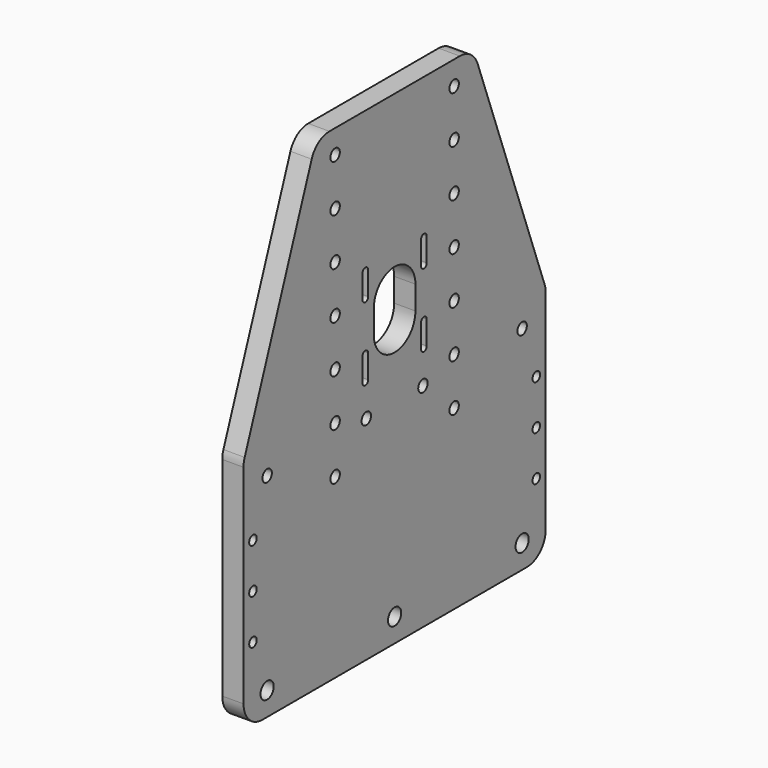
from build123d import *

# Parameters (mm, degrees)
F0_R     = 3.5
F0_R_2   = 2
F0_R_3   = 2.5
F1_DEPTH = 9


with BuildPart() as f1:
    # F0 (on Right) → F1 (new body)
    with BuildSketch(Plane.YZ):
        with BuildLine():
            Line((34.515636, 205), (-34.515636, 205))
            ThreePointArc((-34.515636, 205), (-40.241653, 203.198337), (-43.9044, 198.442546))
            Line((-43.9044, 198.442546), (-79.388763, 101.66701))
            ThreePointArc((-79.388763, 101.66701), (-79.846005, 99.972658), (-80, 98.224463))
            Line((-80, 98.224463), (-80, 10))
            ThreePointArc((-80, 10), (-77.071068, 2.928932), (-70, 0))
            Line((-70, 0), (70, 0))
            ThreePointArc((70, 0), (77.071068, 2.928932), (80, 10))
            Line((80, 10), (80, 98.224463))
            ThreePointArc((80, 98.224463), (79.846005, 99.972658), (79.388763, 101.66701))
            Line((79.388763, 101.66701), (43.9044, 198.442546))
            ThreePointArc((43.9044, 198.442546), (40.241653, 203.198337), (34.515636, 205))
        make_face()
        with Locations((-67.5, 10)):
            Circle(F0_R, mode=Mode.SUBTRACT)
        with Locations((-75, 31)):
            Circle(F0_R_2, mode=Mode.SUBTRACT)
        with Locations((-75, 50)):
            Circle(F0_R_2, mode=Mode.SUBTRACT)
        with Locations((-75, 69)):
            Circle(F0_R_2, mode=Mode.SUBTRACT)
        with Locations((-67.5, 90)):
            Circle(F0_R_3, mode=Mode.SUBTRACT)
        with Locations((-31.5, 75)):
            Circle(F0_R_3, mode=Mode.SUBTRACT)
        with Locations((-31.5, 95)):
            Circle(F0_R_3, mode=Mode.SUBTRACT)
        with Locations((-15, 90)):
            Circle(F0_R_3, mode=Mode.SUBTRACT)
        with Locations((0, 10)):
            Circle(F0_R, mode=Mode.SUBTRACT)
        with Locations((67.5, 10)):
            Circle(F0_R, mode=Mode.SUBTRACT)
        with Locations((75, 31)):
            Circle(F0_R_2, mode=Mode.SUBTRACT)
        with Locations((75, 50)):
            Circle(F0_R_2, mode=Mode.SUBTRACT)
        with Locations((31.5, 75)):
            Circle(F0_R_3, mode=Mode.SUBTRACT)
        with Locations((15, 90)):
            Circle(F0_R_3, mode=Mode.SUBTRACT)
        with Locations((31.5, 95)):
            Circle(F0_R_3, mode=Mode.SUBTRACT)
        with Locations((75, 69)):
            Circle(F0_R_2, mode=Mode.SUBTRACT)
        with Locations((67.5, 90)):
            Circle(F0_R_3, mode=Mode.SUBTRACT)
        with Locations((-31.5, 115)):
            Circle(F0_R_3, mode=Mode.SUBTRACT)
        with BuildLine():
            ThreePointArc((-14, 104), (-15.5, 102.5), (-17, 104))
            Line((-17, 104), (-17, 114))
            ThreePointArc((-17, 114), (-15.5, 115.5), (-14, 114))
            Line((-14, 114), (-14, 104))
        make_face(mode=Mode.SUBTRACT)
        with Locations((-31.5, 135)):
            Circle(F0_R_3, mode=Mode.SUBTRACT)
        with BuildLine():
            ThreePointArc((-17, 145), (-15.5, 146.5), (-14, 145))
            Line((-14, 145), (-14, 135))
            ThreePointArc((-14, 135), (-15.5, 133.5), (-17, 135))
            Line((-17, 135), (-17, 145))
        make_face(mode=Mode.SUBTRACT)
        with Locations((-31.5, 155)):
            Circle(F0_R_3, mode=Mode.SUBTRACT)
        with Locations((-31.5, 175)):
            Circle(F0_R_3, mode=Mode.SUBTRACT)
        with Locations((-31.5, 195)):
            Circle(F0_R_3, mode=Mode.SUBTRACT)
        with BuildLine():
            Line((17, 114), (17, 104))
            ThreePointArc((17, 104), (15.5, 102.5), (14, 104))
            Line((14, 104), (14, 114))
            ThreePointArc((14, 114), (15.5, 115.5), (17, 114))
        make_face(mode=Mode.SUBTRACT)
        with BuildLine():
            ThreePointArc((-11, 129.5), (0, 140.5), (11, 129.5))
            Line((11, 129.5), (11, 119.5))
            ThreePointArc((11, 119.5), (0, 108.5), (-11, 119.5))
            Line((-11, 119.5), (-11, 129.5))
        make_face(mode=Mode.SUBTRACT)
        with Locations((31.5, 115)):
            Circle(F0_R_3, mode=Mode.SUBTRACT)
        with BuildLine():
            Line((14, 135), (14, 145))
            ThreePointArc((14, 145), (15.5, 146.5), (17, 145))
            Line((17, 145), (17, 135))
            ThreePointArc((17, 135), (15.5, 133.5), (14, 135))
        make_face(mode=Mode.SUBTRACT)
        with Locations((31.5, 135)):
            Circle(F0_R_3, mode=Mode.SUBTRACT)
        with Locations((31.5, 155)):
            Circle(F0_R_3, mode=Mode.SUBTRACT)
        with Locations((31.5, 175)):
            Circle(F0_R_3, mode=Mode.SUBTRACT)
        with Locations((31.5, 195)):
            Circle(F0_R_3, mode=Mode.SUBTRACT)
    extrude(amount=F1_DEPTH)


solid = f1.part
